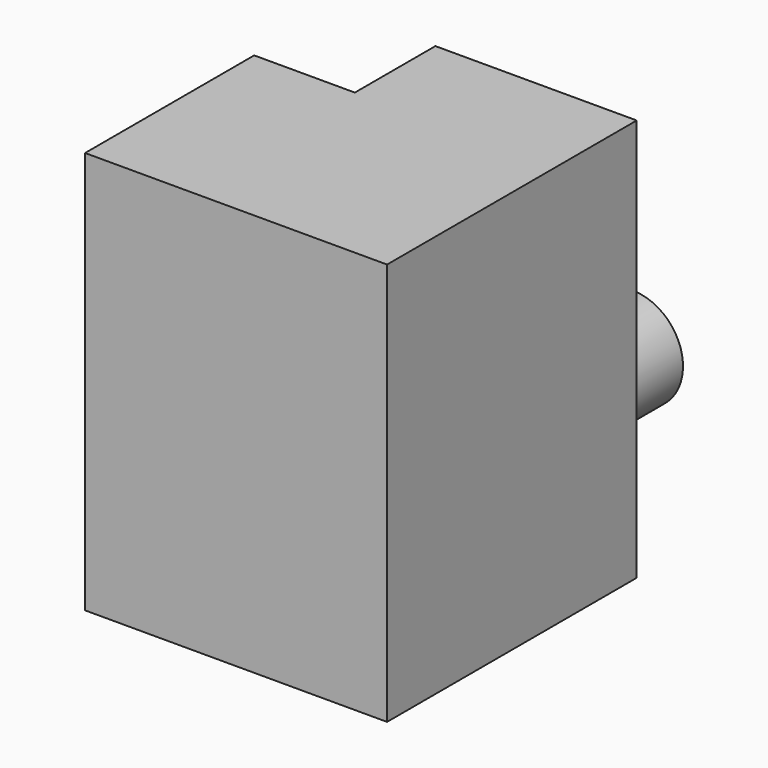
from build123d import *

# Parameters (mm, degrees)
F0_W      = 20
F0_H      = 25
F1_DEPTH  = 80
F2_R      = 5
F2_R_2    = 4.5
F3_DEPTH  = 25
F5_DEPTH  = 52.5
F6_W      = 25
F6_H      = 80
F7_DEPTH  = 30
F9_DEPTH  = 20
F10_R     = 12.5
F11_DEPTH = 30


with BuildPart() as f1:
    # F0 (on Top) → F1 (new body)
    with BuildSketch(Plane.XY):
        with Locations((10, -12.5)):
            Rectangle(F0_W, F0_H)
    extrude(amount=F1_DEPTH)

    # F2 (on face) → F3 (cut)
    with BuildSketch(Plane.YZ.offset(20)):
        with Locations((-12.5, 71)):
            Circle(F2_R)
        with Locations((-12.5, 56)):
            Circle(F2_R_2)
        with Locations((-12.5, 41)):
            Circle(F2_R)
        with Locations((-12.5, 26)):
            Circle(F2_R_2)
    extrude(amount=-F3_DEPTH, mode=Mode.SUBTRACT)

    # F4 (on face) → F5 (join)
    with BuildSketch(Plane.XZ.offset(25)):
        Polygon((-25, 0), (0, 0), (50, 0), (50, 80), (-25, 80), align=None)
    extrude(amount=F5_DEPTH)

    # F6 (on face) → F7 (join)
    with BuildSketch(Plane.YZ.offset(20)):
        with Locations((-12.5, 40)):
            Rectangle(F6_W, F6_H)
    extrude(amount=F7_DEPTH)

    # F8 (on face) → F9 (join)
    with BuildSketch(Plane(origin=(0, 0, 0), x_dir=(1, 0, 0), z_dir=(0, 0, -1))):
        Polygon((-25, 77.5), (-25, 25), (0, 25), (0, 0), (50, 0), (50, 77.5), align=None)
    extrude(amount=F9_DEPTH)

    # F10 (on face) → F11 (join)
    with BuildSketch(Plane(origin=(0, 0, 0), x_dir=(-1, 0, 0), z_dir=(0, 1, 0))):
        with Locations((-25, 10)):
            Circle(F10_R)
    extrude(amount=F11_DEPTH)


solid = f1.part
